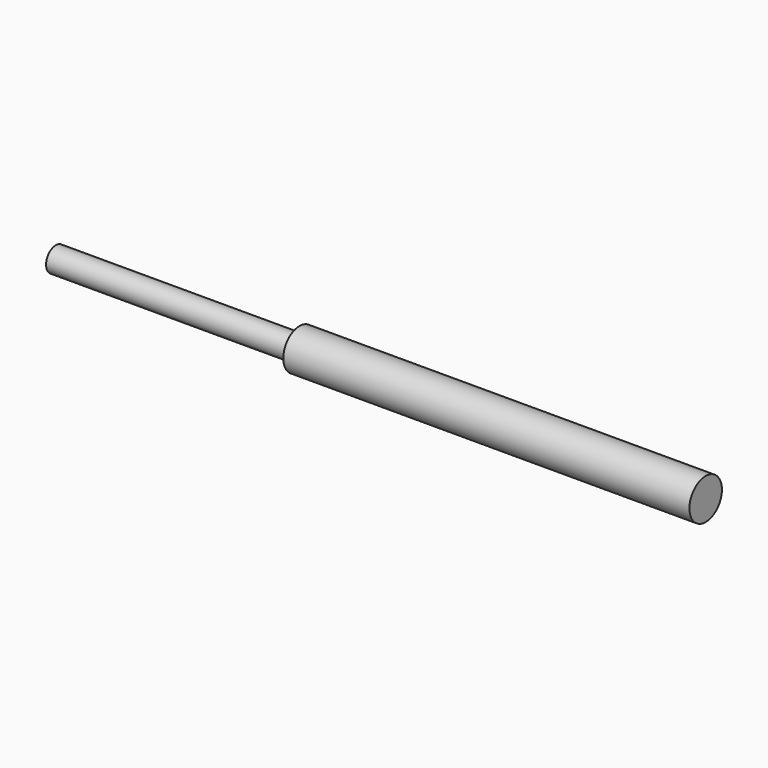
from build123d import *

# Parameters (mm, degrees)
F0_R     = 25
F1_DEPTH = 500
F2_R     = 15
F3_DEPTH = 300


with BuildPart() as f1:
    # F0 (on Right) → F1 (new body)
    with BuildSketch(Plane.YZ):
        with Locations((0, 6.906278)):
            Circle(F0_R)
    extrude(amount=F1_DEPTH)

    # F2 (on face) → F3 (join)
    with BuildSketch(Plane(origin=(0, 0, 0), x_dir=(0, -1, 0), z_dir=(-1, 0, 0))):
        with Locations((0, 6.906278)):
            Circle(F2_R)
        with Locations((0, 6.906278)):
            Circle(F2_R)
    extrude(amount=F3_DEPTH)


solid = f1.part
